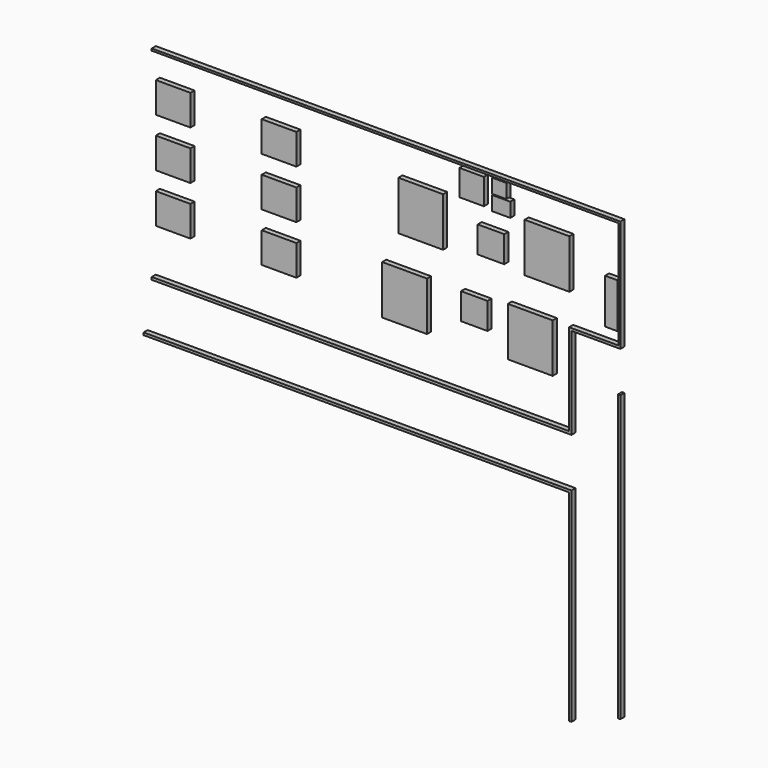
from build123d import *

# Parameters (mm, degrees)
F0_W     = 220
F0_H     = 240
F0_W_2   = 10
F0_H_2   = 528.406718
F0_H_3   = 10
F0_W_3   = 2290
F0_H_4   = 12
F0_W_4   = 230
F0_W_5   = 12
F0_H_5   = 436.889386
F0_H_6   = 12.703896
F0_W_6   = 2048
F0_W_7   = 130
F0_H_7   = 130
F0_W_8   = 120
F0_H_8   = 127
F0_W_9   = 90
F0_H_9   = 70
F0_W_10  = 70
F0_W_11  = 60
F0_H_10  = 220
F0_W_12  = 170
F0_H_11  = 150
F0_W_13  = 2088
F0_H_12  = 988
F1_DEPTH = 25


with BuildPart() as f1:
    # F0 (on Front) → F1 (new body)
    with BuildSketch(Plane.XZ):
        with Locations((110, 0)):
            Rectangle(F0_W, F0_H)
        with Locations((465, -9.203359)):
            Rectangle(F0_W_2, F0_H_2)
        with Locations((465, 260)):
            Rectangle(F0_W_2, F0_H_3)
        Polygon((470, -635), (470, -485.406718), (458, -485.406718), (458, -1885.406718), (470, -1885.406718), (470, -735), (470, -722.296104), align=None)
        with Locations((-685, 260)):
            Rectangle(F0_W_3, F0_H_3)
        with Locations((465, -279.406718)):
            Rectangle(F0_W_2, F0_H_4)
        with Locations((345, -279.406718)):
            Rectangle(F0_W_4, F0_H_4)
        with Locations((224, -279.406718)):
            Rectangle(F0_W_5, F0_H_4)
        with Locations((224, -503.851411)):
            Rectangle(F0_W_5, F0_H_5)
        with Locations((224, -728.648052)):
            Rectangle(F0_W_5, F0_H_6)
        with Locations((-806, -728.648052)):
            Rectangle(F0_W_6, F0_H_6)
        with Locations((-165, -40)):
            Rectangle(F0_W_7, F0_H_7)
        with Locations((-260, 176.5)):
            Rectangle(F0_W_8, F0_H_8)
        with Locations((-115, 140)):
            Rectangle(F0_W_9, F0_H_9)
        with Locations((-125, 215)):
            Rectangle(F0_W_10, F0_H_9)
        with Locations((425, -103.406718)):
            Rectangle(F0_W_11, F0_H_10)
        with Locations((-510, -20)):
            Rectangle(F0_W, F0_H)
        with Locations((-1205, 60)):
            Rectangle(F0_W_12, F0_H_11)
        with Locations((-1205, -180)):
            Rectangle(F0_W_12, F0_H_11)
        with Locations((224, -981)):
            Rectangle(F0_W_5, F0_H_4)
        with Locations((-826, -981)):
            Rectangle(F0_W_13, F0_H_4)
        with Locations((224, -1481)):
            Rectangle(F0_W_5, F0_H_12)
        with Locations((-1725, 60)):
            Rectangle(F0_W_12, F0_H_11)
        with Locations((-1725, -180)):
            Rectangle(F0_W_12, F0_H_11)
        with Locations((28, -390)):
            Rectangle(F0_W, F0_H)
        with Locations((-247, -355)):
            Rectangle(F0_W_7, F0_H_7)
        with Locations((-589.005002, -410)):
            Rectangle(F0_W, F0_H)
        with Locations((-1205, -420)):
            Rectangle(F0_W_12, F0_H_11)
        with Locations((-1725, -420)):
            Rectangle(F0_W_12, F0_H_11)
    extrude(amount=F1_DEPTH)


solid = f1.part
